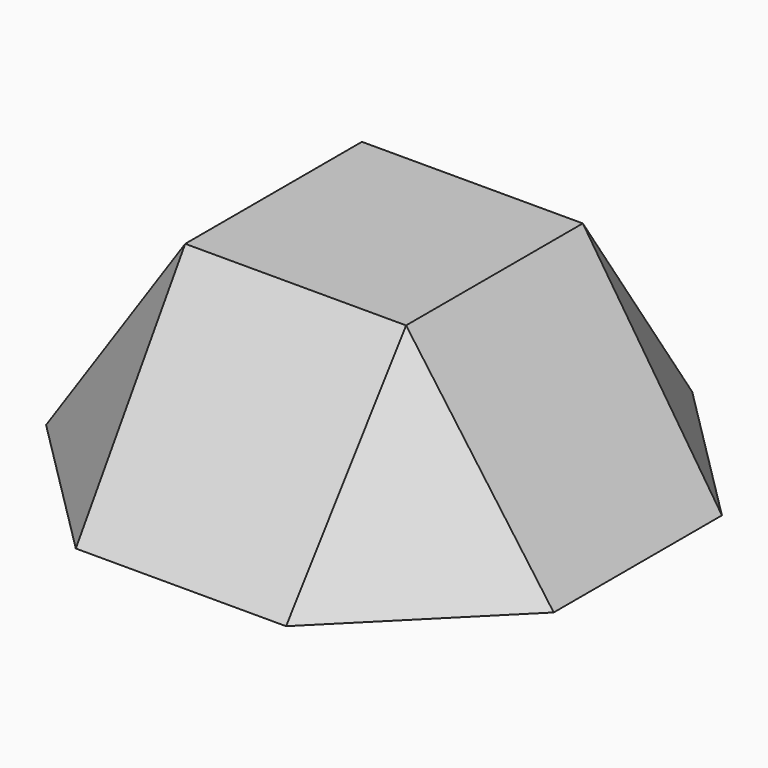
from build123d import *

# Parameters (mm, degrees)
F1_DEPTH = 2
F7_W     = 97.5
F7_H     = 97.5
F8_W     = 42.4264068712
F8_H     = 42.4264068712


with BuildPart() as f1:
    # F0 (on Top) → F1 (new body)
    with BuildSketch(Plane.XY):
        with BuildLine():
            ThreePointArc((34.4714555828, -34.4714555828), (45.0391272099, -18.6558173278), (48.75, 0))
            ThreePointArc((48.75, 0), (45.0391271917, 18.6558173718), (34.4714555154, 34.4714556502))
            ThreePointArc((34.4714555154, 34.4714556502), (18.655817355, 45.0391271987), (1.543e-07, 48.75))
            ThreePointArc((1.543e-07, 48.75), (-18.6558172398, 45.0391272464), (-34.4714555572, 34.4714556085))
            ThreePointArc((-34.4714555572, 34.4714556085), (-45.039127203, 18.6558173446), (-48.75, 0))
            ThreePointArc((-48.75, 0), (-45.0391272099, -18.6558173278), (-34.4714555828, -34.4714555828))
            ThreePointArc((-34.4714555828, -34.4714555828), (-18.6558173238, -45.0391272116), (8.6e-09, -48.75))
            ThreePointArc((8.6e-09, -48.75), (18.6558173318, -45.0391272083), (34.4714555828, -34.4714555828))
        make_face()
        with BuildLine():
            Line((48.75, -20.1929111657), (48.75, 0))
            ThreePointArc((48.75, 0), (45.0391272099, -18.6558173278), (34.4714555828, -34.4714555828))
            Line((34.4714555828, -34.4714555828), (48.75, -20.1929111657))
        make_face()
        with BuildLine():
            ThreePointArc((34.4714555154, 34.4714556502), (45.0391271917, 18.6558173718), (48.75, 0))
            Line((48.75, 0), (48.75, 20.1929111657))
            Line((48.75, 20.1929111657), (34.4714555154, 34.4714556502))
        make_face()
        with BuildLine():
            ThreePointArc((1.543e-07, 48.75), (18.655817355, 45.0391271987), (34.4714555154, 34.4714556502))
            Line((34.4714555154, 34.4714556502), (20.1929111657, 48.75))
            Line((20.1929111657, 48.75), (1.543e-07, 48.75))
        make_face()
        with BuildLine():
            Line((20.1929111657, -48.75), (34.4714555828, -34.4714555828))
            ThreePointArc((34.4714555828, -34.4714555828), (18.6558173318, -45.0391272083), (8.6e-09, -48.75))
            Line((8.6e-09, -48.75), (20.1929111657, -48.75))
        make_face()
        with BuildLine():
            ThreePointArc((-34.4714555572, 34.4714556085), (-18.6558172398, 45.0391272464), (1.543e-07, 48.75))
            Line((1.543e-07, 48.75), (-20.1929111657, 48.75))
            Line((-20.1929111657, 48.75), (-34.4714555572, 34.4714556085))
        make_face()
        with BuildLine():
            Line((-20.1929111657, -48.75), (8.6e-09, -48.75))
            ThreePointArc((8.6e-09, -48.75), (-18.6558173238, -45.0391272116), (-34.4714555828, -34.4714555828))
            Line((-34.4714555828, -34.4714555828), (-20.1929111657, -48.75))
        make_face()
        with BuildLine():
            ThreePointArc((-48.75, 0), (-45.039127203, 18.6558173446), (-34.4714555572, 34.4714556085))
            Line((-34.4714555572, 34.4714556085), (-48.75, 20.1929111657))
            Line((-48.75, 20.1929111657), (-48.75, 0))
        make_face()
        with BuildLine():
            Line((-48.75, -20.1929111657), (-34.4714555828, -34.4714555828))
            ThreePointArc((-34.4714555828, -34.4714555828), (-45.0391272099, -18.6558173278), (-48.75, 0))
            Line((-48.75, 0), (-48.75, -20.1929111657))
        make_face()
    extrude(amount=F1_DEPTH)

    # F4 (on face) → F5 section 0
    with BuildSketch(Plane.XY.offset(2)):
        Polygon((-48.75, 20.1929111657), (-48.75, -20.1929111657), (-20.1929111657, -48.75), (20.1929111657, -48.75), (48.75, -20.1929111657), (48.75, 20.1929111657), (20.1929111657, 48.75), (-20.1929111657, 48.75), align=None)
    # F3 (on offset) → F5 section 1
    with BuildSketch(Plane.XY.offset(42)):
        Polygon((-30, 12.4264068712), (-30, -12.4264068712), (-12.4264068712, -30), (12.4264068712, -30), (30, -12.4264068712), (30, 12.4264068712), (12.4264068712, 30), (-12.4264068712, 30), align=None)
    loft()

    # F7 (on offset) → F9 section 0
    with BuildSketch(Plane(origin=(0, 0, 2), x_dir=(1, 0, 0), z_dir=(0, 0, -1))):
        Rectangle(F7_W, F7_H)
    # F8 (on face) → F9 section 1
    with BuildSketch(Plane.XY.offset(42)):
        Rectangle(F8_W, F8_H)
    loft(mode=Mode.INTERSECT)


solid = f1.part
